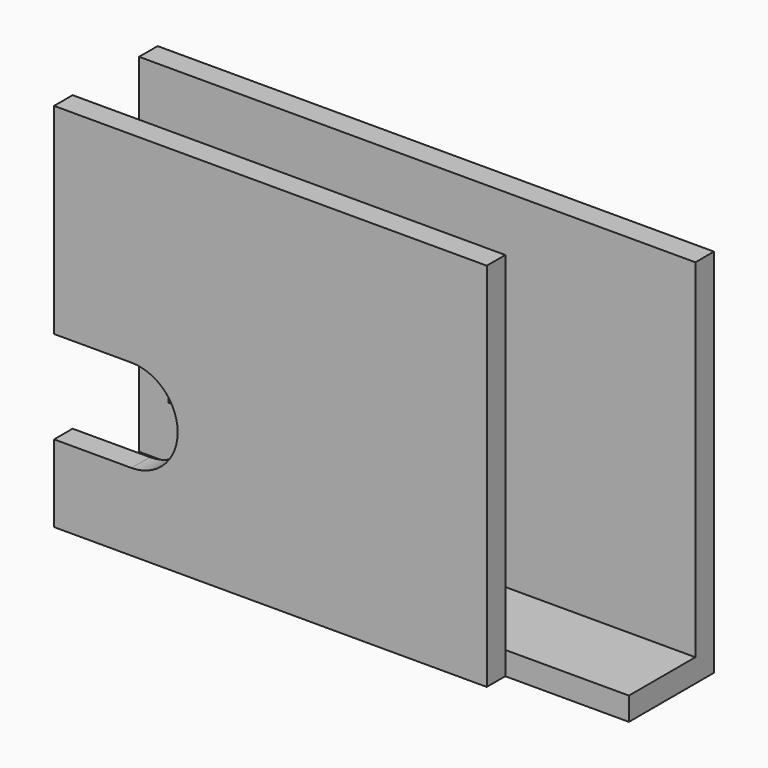
from build123d import *

# Parameters (mm, degrees)
F0_W      = 106.3752
F0_H      = 304.8
F1_DEPTH  = 228.6
F3_W      = 68.2752
F3_H      = 285.75
F4_DEPTH  = 228.6
F5_W      = 101.6
F5_H      = 285.75
F6_DEPTH  = 19.05
F7_W      = 76.2
F7_H      = 76.2
F7_R      = 2.5527
F8_DEPTH  = 1.6764
F10_DEPTH = 19.05
F11_W     = 101.6
F11_H     = 19.05
F12_DEPTH = 19.051


with BuildPart() as f1:
    # F0 (on Right) → F1 (new body, symmetric)
    with BuildSketch(Plane.YZ):
        Rectangle(F0_W, F0_H)
    extrude(amount=F1_DEPTH, both=True)

    # F3 (on Right) → F4 (cut, symmetric)
    with BuildSketch(Plane.YZ):
        with Locations((0, 9.525)):
            Rectangle(F3_W, F3_H)
    extrude(amount=F4_DEPTH, both=True, mode=Mode.SUBTRACT)

    # F5 (on face) → F6 (cut, through all)
    with BuildSketch(Plane.XZ.offset(53.1876)):
        with Locations((177.8, 9.525)):
            Rectangle(F5_W, F5_H)
    extrude(amount=-F6_DEPTH, mode=Mode.SUBTRACT)

    # F9 (on face) → F10 (cut, through all)
    with BuildSketch(Plane.XZ.offset(53.1876)):
        with BuildLine():
            Line((-228.6, -88.9), (-165.1, -88.9))
            ThreePointArc((-165.1, -88.9), (-127, -50.8), (-165.1, -12.7))
            Line((-165.1, -12.7), (-228.6, -12.7))
            Line((-228.6, -12.7), (-228.6, -88.9))
        make_face()
    extrude(amount=-F10_DEPTH, mode=Mode.SUBTRACT)

    # F11 (on face) → F12 (cut, through all)
    with BuildSketch(Plane.XY.offset(-133.35)):
        with Locations((177.8, -43.6626)):
            Rectangle(F11_W, F11_H)
    extrude(amount=-F12_DEPTH, mode=Mode.SUBTRACT)


with BuildPart() as f8:
    # F7 (on face) → F8 (new body)
    with BuildSketch(Plane.XZ.offset(-34.1376)):
        with Locations((-165.1, -50.8)):
            Rectangle(F7_W, F7_H)
        with Locations((-190.5, -76.2)):
            Circle(F7_R, mode=Mode.SUBTRACT)
        with Locations((-139.7, -76.2)):
            Circle(F7_R, mode=Mode.SUBTRACT)
        with Locations((-190.5, -25.4)):
            Circle(F7_R, mode=Mode.SUBTRACT)
        with Locations((-139.7, -25.4)):
            Circle(F7_R, mode=Mode.SUBTRACT)
    extrude(amount=F8_DEPTH)


solid = Compound([f1.part, f8.part])
